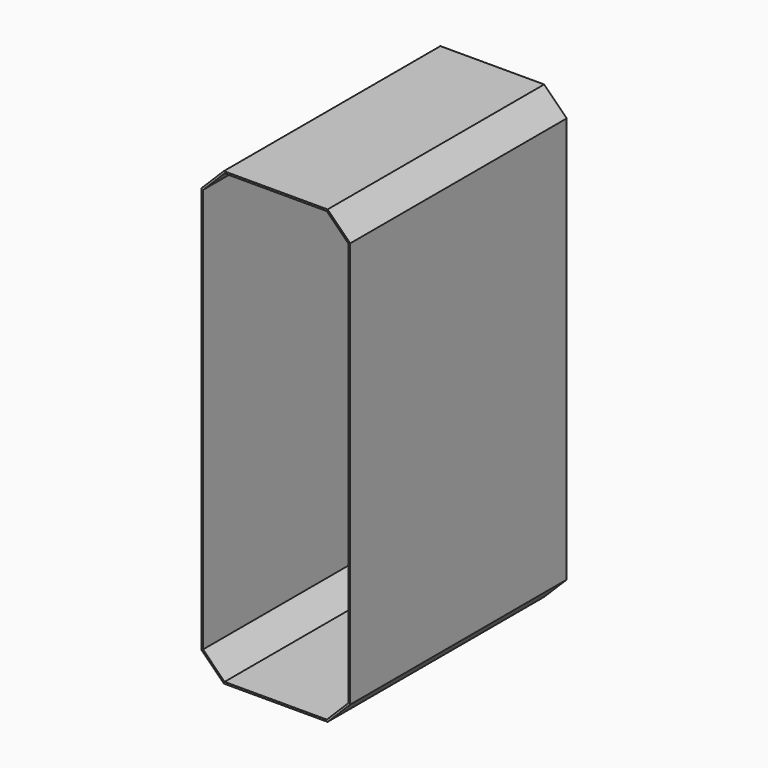
from build123d import *

# Parameters (mm, degrees)
F0_W     = 330
F0_H     = 1000
F1_DEPTH = 600
F2_SIZE  = 50
F3_T     = -4


with BuildPart() as f1:
    # F0 (on Front) → F1 (new body)
    with BuildSketch(Plane.XZ):
        with Locations((165, 500)):
            Rectangle(F0_W, F0_H)
    extrude(amount=F1_DEPTH)

    # F2
    f2_edges = [f1.edges().sort_by_distance(p)[0] for p in [
        (0, -300, 1000),
        (330, -300, 1000),
        (0, -300, 0),
        (330, -300, 0),
    ]]
    chamfer(f2_edges, length=F2_SIZE)

    # F3
    f3_openings = [f1.faces().sort_by_distance(p)[0] for p in [
        (165, -600, 500),
        (165, 0, 500),
    ]]
    offset(amount=F3_T, openings=f3_openings)


solid = f1.part
